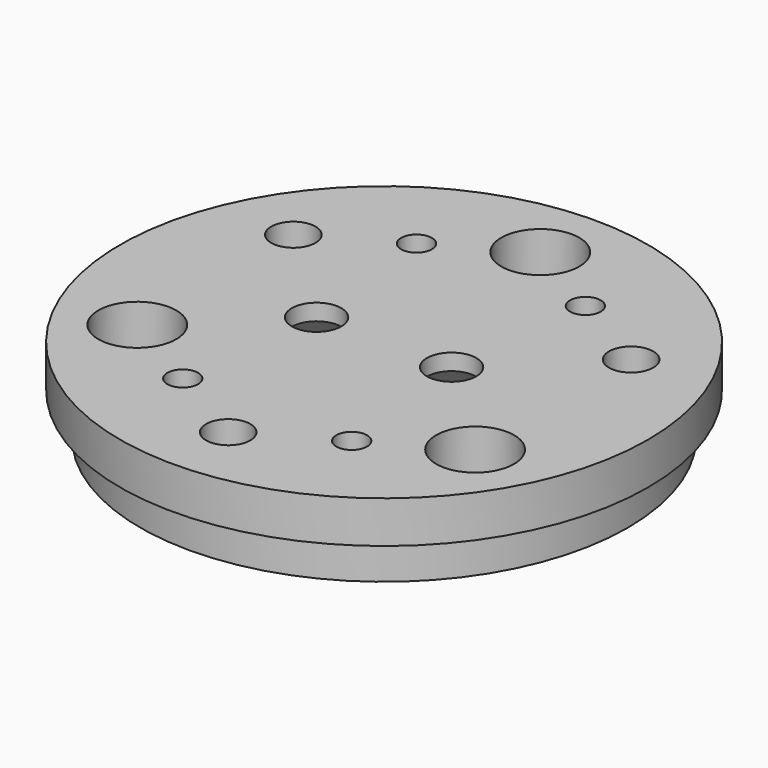
from build123d import *

# Parameters (mm, degrees)
F0_R           = 32.499997
F0_R_2         = 3
F0_R_3         = 2.5
F0_R_4         = 5.450141
F1_DEPTH       = 5.6
F2_R           = 35.1877607124
F2_R_2         = 2.05
F2_R_3         = 5.2
F2_R_4         = 2.95
F3_DEPTH       = 5.6
F5_D           = 6.6
F5_CSINK_D     = 13.44
F5_CSINK_ANGLE = 90


with BuildPart() as f1:
    # F0 (on Top) → F1 (new body)
    with BuildSketch(Plane.XY):
        with Locations((-67.1717547521, -17.3467109513)):
            Circle(F0_R)
        with Locations((-89.6882567521, -30.3222589513)):
            Circle(F0_R_2, mode=Mode.SUBTRACT)
        with Locations((-67.1714107521, -43.3213519513)):
            Circle(F0_R_3, mode=Mode.SUBTRACT)
        with Locations((-44.6550417521, -30.3219509513)):
            Circle(F0_R_2, mode=Mode.SUBTRACT)
        with Locations((-89.6886247521, -4.3216849513)):
            Circle(F0_R_3, mode=Mode.SUBTRACT)
        with Locations((-67.1717547521, -17.3465379513)):
            Circle(F0_R_4, mode=Mode.SUBTRACT)
        with Locations((-44.6552727521, -4.3222529513)):
            Circle(F0_R_3, mode=Mode.SUBTRACT)
        with Locations((-67.1710657521, 8.6784020487)):
            Circle(F0_R_2, mode=Mode.SUBTRACT)
    extrude(amount=F1_DEPTH)


with BuildPart() as f3:
    # F2 (on face) → F3 (new body)
    with BuildSketch(Plane.XY.offset(5.6)):
        with Locations((-67.1717547521, -17.3465379513)):
            Circle(F2_R)
        with Locations((-78.4298337521, -36.8218054513)):
            Circle(F2_R_2, mode=Mode.SUBTRACT)
        with Locations((-89.6882567521, -30.3222589513)):
            Circle(F2_R_3, mode=Mode.SUBTRACT)
        with Locations((-67.1714107521, -43.3213519513)):
            Circle(F2_R_4, mode=Mode.SUBTRACT)
        with Locations((-55.9132262521, -36.8216514513)):
            Circle(F2_R_2, mode=Mode.SUBTRACT)
        with Locations((-44.6550417521, -30.3219509513)):
            Circle(F2_R_3, mode=Mode.SUBTRACT)
        with Locations((-89.6886247521, -4.3216849513)):
            Circle(F2_R_4, mode=Mode.SUBTRACT)
        with Locations((-78.4298337521, 2.1287295487)):
            Circle(F2_R_2, mode=Mode.SUBTRACT)
        with Locations((-44.6552727521, -4.3222529513)):
            Circle(F2_R_4, mode=Mode.SUBTRACT)
        with Locations((-67.1710657521, 8.6784020487)):
            Circle(F2_R_3, mode=Mode.SUBTRACT)
        with Locations((-55.9132262521, 2.1285755487)):
            Circle(F2_R_2, mode=Mode.SUBTRACT)
    extrude(amount=F3_DEPTH)

    # F5 (through all)
    with Locations(Plane(origin=(0, 0, 5.6), x_dir=(1, 0, 0), z_dir=(0, 0, -1))):
        with Locations((-76.1717547521, 17.3465379513), (-58.1717547521, 17.3465379513)):
            CounterSinkHole(F5_D / 2, F5_CSINK_D / 2, counter_sink_angle=F5_CSINK_ANGLE)


solid = Compound([f1.part, f3.part])
